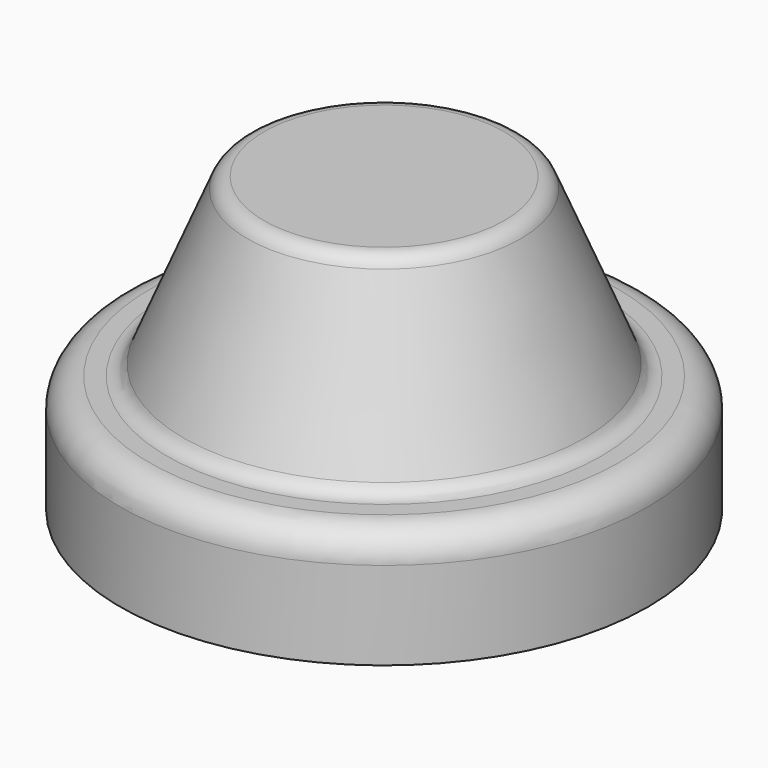
from build123d import *


with BuildPart() as f1:
    # F0 (on Front) → F1 (revolve)
    with BuildSketch(Plane.XZ):
        with BuildLine():
            Line((20.5, 50), (0, 50))
            Line((0, 50), (0, 0))
            Line((0, 0), (45, 0))
            Line((45, 0), (45, 15))
            ThreePointArc((45, 15), (43.535534, 18.535534), (40, 20))
            Line((40, 20), (37, 20))
            ThreePointArc((37, 20), (35.335899, 20.503849), (34.230769, 21.846154))
            Line((34.230769, 21.846154), (23.269231, 48.153846))
            ThreePointArc((23.269231, 48.153846), (22.164101, 49.496151), (20.5, 50))
        make_face()
    revolve(axis=Axis((0, 0, 23.88157), (0, 0, 1)))


solid = f1.part
